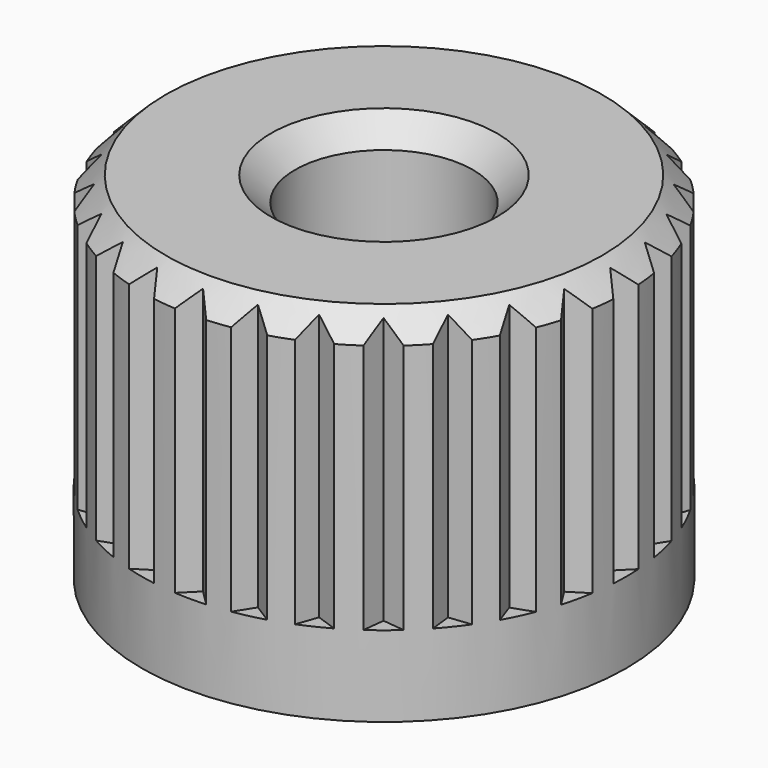
from build123d import *

# Parameters (mm, degrees)
SKETCH026_R                 = 3
PAD002001003004001006_DEPTH = 4.4
SKETCH027_R                 = 1.1
POCKET011_DEPTH             = 4.401
CHAMFER_SIZE                = 0.3
POCKET012_DEPTH             = 3.4
POLARPATTERN_COUNT          = 28
CHAMFER001_SIZE             = 0.3


with BuildPart() as part:
    # Sketch026 → Pad002001003004001006 (new body)
    with BuildSketch(Plane.XY):
        Circle(SKETCH026_R)
    extrude(amount=PAD002001003004001006_DEPTH)

    # Sketch027 (on Face3 of Pad002001003004001006) → Pocket011 (cut, through all)
    with BuildSketch(Plane.XY.offset(4.4)):
        Circle(SKETCH027_R)
    extrude(amount=-POCKET011_DEPTH, mode=Mode.SUBTRACT)

    # Chamfer
    chamfer_edges = [part.edges().sort_by_distance(p)[0] for p in [
        (-3, 0, 4.4),
    ]]
    chamfer(chamfer_edges, length=CHAMFER_SIZE)

    # Sketch028 (on Face4 of Chamfer) → Pocket012 (cut)
    with BuildSketch(Plane.XY.offset(4.4)):
        Polygon((-0.2, 3), (0, 2.8), (0.2, 3), align=None)
    pocket012 = extrude(amount=-POCKET012_DEPTH, mode=Mode.SUBTRACT)

    # PolarPattern: Pocket012 ×28 about axis
    polarpattern_axis = Axis((0, 0, 4.4), (0, 0, 1))
    for i in range(1, POLARPATTERN_COUNT):
        add(pocket012.rotate(polarpattern_axis, i * 360 / POLARPATTERN_COUNT), mode=Mode.SUBTRACT)

    # Chamfer001
    chamfer001_edges = [part.edges().sort_by_distance(p)[0] for p in [
        (-1.1, 0, 4.4),
    ]]
    chamfer(chamfer001_edges, length=CHAMFER001_SIZE)


solid = part.part
